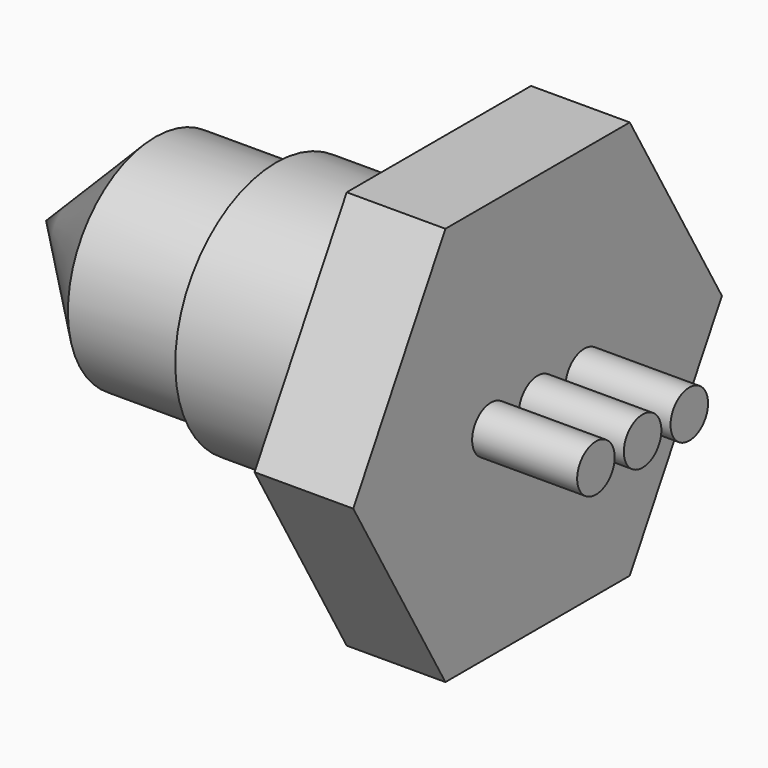
from build123d import *

# Parameters (mm, degrees)
F3_DEPTH = 4.7
F4_R     = 1.116349
F5_DEPTH = 5


with BuildPart() as f1:
    # F0 (on Front) → F1 (revolve)
    with BuildSketch(Plane.XZ):
        Polygon((0, 0), (0, 6), (-7.75, 6), (-7.75, 5.2), (-13.5, 5.2), (-18.7, 0), align=None)
    revolve(axis=Axis((-9.35, 0, 0), (1, 0, 0)))

    # F2 (on face) → F3 (join)
    with BuildSketch(Plane.YZ):
        Polygon((-5.484828, -9.5), (5.484828, -9.5), (10.969655, 0), (5.484828, 9.5), (-5.484828, 9.5), (-10.969655, 0), align=None)
    extrude(amount=F3_DEPTH)

    # F4 (on face) → F5 (join)
    with BuildSketch(Plane.YZ.offset(4.7)):
        with Locations((-2.778471, 0)):
            Circle(F4_R)
        with Locations((2.778471, 0)):
            Circle(F4_R)
        Circle(F4_R)
    extrude(amount=F5_DEPTH)


solid = f1.part
